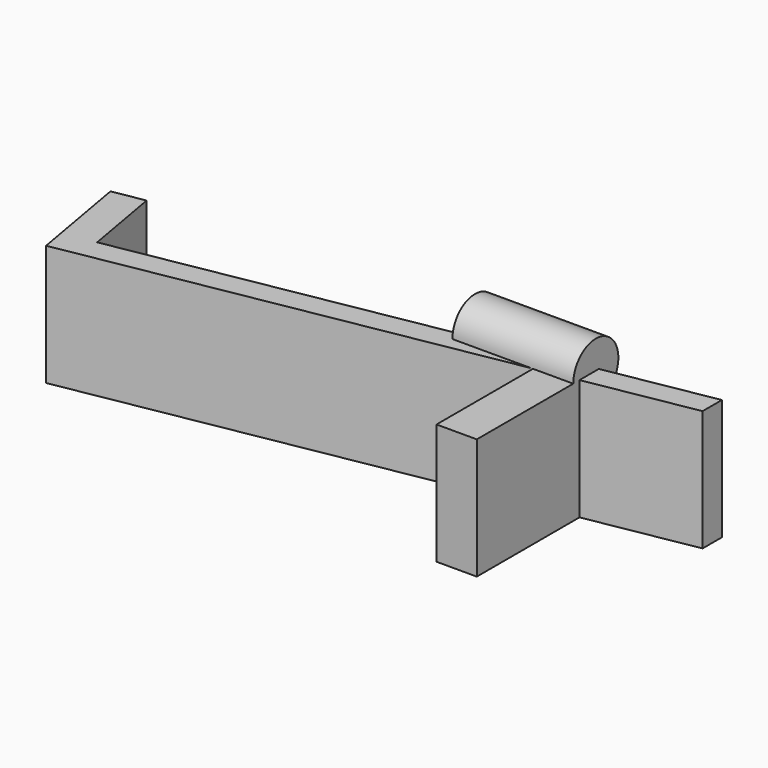
from build123d import *

# Parameters (mm, degrees)
PAD_DEPTH    = 15
SKETCH001_R  = 3.5
PAD001_DEPTH = 15


with BuildPart() as part:
    # Sketch → Pad (new body)
    with BuildSketch(Plane.XY):
        Polygon((0, 0), (-5, 0), (-5, 15), (-57.980821, 5.658052), (-60.238248, 18.460553), (-56.299017, 19.155145), (-54.562535, 9.307068), (13.3892, 21.288792), (13.3892, 18.288792), (0, 15.927915), align=None)
    extrude(amount=PAD_DEPTH)

    # Sketch001 → Pad001 (new body)
    with BuildSketch(Plane.YZ):
        with Locations((18.460553, 15)):
            Circle(SKETCH001_R)
    extrude(amount=-PAD001_DEPTH)


solid = part.part
